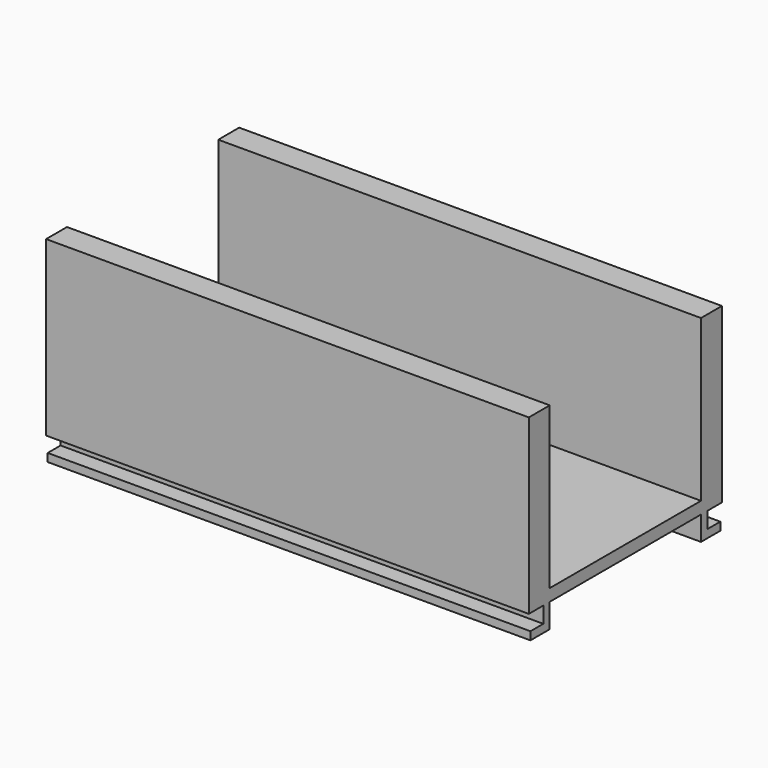
from build123d import *

# Parameters (mm, degrees)
F0_W          = 2
F0_H          = 4
F0_W_2        = 6.5
F0_H_2        = 40
F1_DEPTH      = 60
F1_DEPTH_BACK = 60


with BuildPart() as f1:
    # F0 (on Right) → F1 (new body, two sides)
    with BuildSketch(Plane.YZ) as f1_sk:
        Polygon((-30, 0), (-30, -3), (-25.5, -3), (-23.5, -3), (23.5, -3), (25.5, -3), (30, -3), (30, 0), (23.5, 0), (-23.5, 0), align=None)
        with Locations((-24.5, -5)):
            Rectangle(F0_W, F0_H)
        with Locations((-26.75, 20)):
            Rectangle(F0_W_2, F0_H_2)
        Polygon((-23.5, -7), (-25.5, -7), (-29.5, -7), (-29.5, -9), (-23.5, -9), align=None)
        with Locations((24.5, -5)):
            Rectangle(F0_W, F0_H)
        with Locations((26.75, 20)):
            Rectangle(F0_W_2, F0_H_2)
        Polygon((25.5, -7), (23.5, -7), (23.5, -9), (29.5, -9), (29.5, -7), align=None)
    extrude(amount=F1_DEPTH)
    extrude(f1_sk.sketch, amount=-F1_DEPTH_BACK)


solid = f1.part
